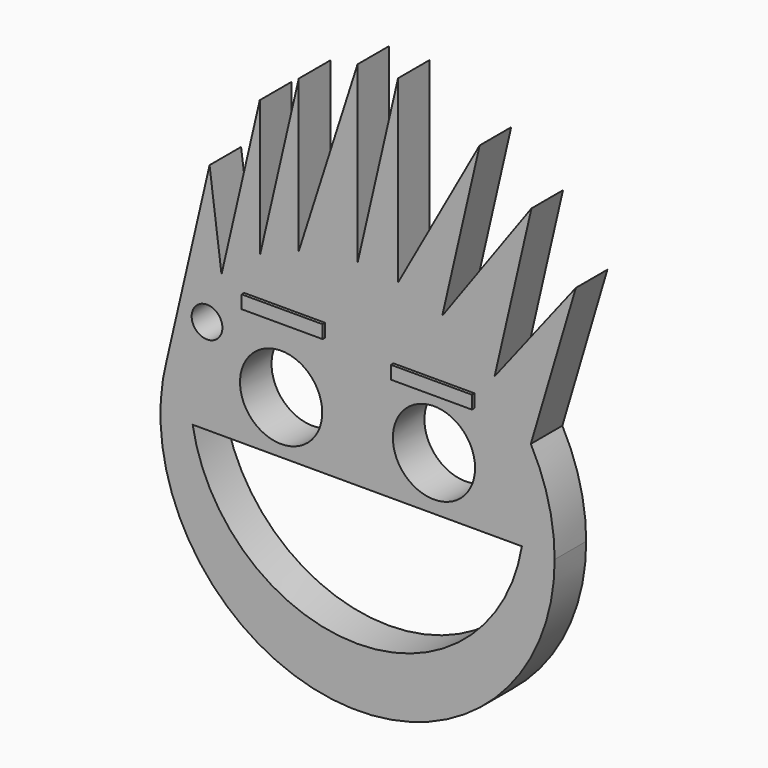
from build123d import *

# Parameters (mm, degrees)
F2_DEPTH   = 3.175
F1_R       = 3.3099800026
F2_FACE_R  = 15.875
F3_DEPTH   = 3.176
F4_DEPTH   = 3.176
F5_DEPTH   = 3.176
F1_W       = 6.5204764251
F1_H       = 1.0553477332
F6_DEPTH   = 3.429
F7_DEPTH   = 3.175
F8_DEPTH   = 3.175
F10_DEPTH  = 3.175
F1_R_2     = 1.2371702014
F10_FACE_R = 3.3099800026
F10_FACE_W = 6.5204764251
F10_FACE_H = 1.0553477332
F11_DEPTH  = 3.43
F12_DEPTH  = 3.429


with BuildPart() as f2:
    # F0 (on Front) → F2 (new body)
    with BuildSketch(Plane.XZ):
        with BuildLine():
            ThreePointArc((-15.3480242567, 4.0563254821), (-2.0452065819, -15.7427048196), (15.875, 0))
            ThreePointArc((15.875, 0), (15.3869963752, 3.9058888297), (13.9529883401, 7.5716406003))
            ThreePointArc((13.9529883401, 7.5716406003), (12.6412349384, 9.6028539629), (11.0362168136, 11.4112901743))
            ThreePointArc((11.0362168136, 11.4112901743), (9.0476421038, 13.0443779983), (6.8213515593, 14.3347405943))
            ThreePointArc((6.8213515593, 14.3347405943), (5.0774604505, 15.0411110086), (3.2622452096, 15.5361958404))
            ThreePointArc((3.2622452096, 15.5361958404), (1.6398957334, 15.7900717853), (0, 15.875))
            ThreePointArc((0, 15.875), (-2.3954258199, 15.693232941), (-4.7359968989, 15.152094191))
            ThreePointArc((-4.7359968989, 15.152094191), (-6.342661706, 14.552878323), (-7.8753225223, 13.7838644861))
            ThreePointArc((-7.8753225223, 13.7838644861), (-9.4847902105, 12.730058117), (-10.9549720741, 11.4893085891))
            ThreePointArc((-10.9549720741, 11.4893085891), (-13.6665362642, 8.0772155808), (-15.3480242567, 4.0563254821))
        make_face()
    extrude(amount=F2_DEPTH)

    # F1 (on face) + F2_face (on face) → F3 (cut, through all)
    with BuildSketch(Plane.XZ):
        with Locations((-6.1555983319, 4.3306481437)):
            Circle(F1_R)
    with BuildSketch(Plane.XZ.offset(3.175)):
        Circle(F2_FACE_R)
    extrude(amount=F3_DEPTH, mode=Mode.SUBTRACT)

    # F1 (on face) → F4 (cut, through all)
    with BuildSketch(Plane.XZ):
        with Locations((6.1544640741, 4.4018082744)):
            Circle(F1_R)
    extrude(amount=F4_DEPTH, mode=Mode.SUBTRACT)

    # F1 (on face) → F5 (cut, through all)
    with BuildSketch(Plane.XZ):
        with BuildLine():
            Line((13.2357986914, 0.0787362223), (-13.2809156822, 0.0787362223))
            ThreePointArc((-13.2809156822, 0.0787362223), (-0.0225584954, -11.1437029045), (13.2357986914, 0.0787362223))
        make_face()
    extrude(amount=F5_DEPTH, mode=Mode.SUBTRACT)

    # F1 (on face) → F6 (join)
    with BuildSketch(Plane.XZ):
        with Locations((6.1458884738, 9.15713422)):
            Rectangle(F1_W, F1_H)
    extrude(amount=F6_DEPTH)

    # F0 (on Front) → F7 (join)
    with BuildSketch(Plane.XZ):
        with BuildLine():
            Line((-11.9195533916, 18.9222916961), (-15.3480242567, 4.0563254821))
            ThreePointArc((-15.3480242567, 4.0563254821), (-13.6665362642, 8.0772155808), (-10.9549720741, 11.4893085891))
            Line((-10.9549720741, 11.4893085891), (-11.9195533916, 18.9222916961))
        make_face()
    extrude(amount=F7_DEPTH)

    # F0 (on Front) → F8 (join)
    with BuildSketch(Plane.XZ):
        with BuildLine():
            Line((-7.8753225223, 24.8427737317), (-10.9549720741, 11.4893085891))
            ThreePointArc((-10.9549720741, 11.4893085891), (-9.4847902105, 12.730058117), (-7.8753225223, 13.7838644861))
            Line((-7.8753225223, 13.7838644861), (-7.8753225223, 24.8427737317))
        make_face()
    extrude(amount=F8_DEPTH)

    # F0 (on Front) → F10 (join)
    with BuildSketch(Plane.XZ):
        with BuildLine():
            Line((0, 29.9478769302), (-4.7359968989, 15.152094191))
            ThreePointArc((-4.7359968989, 15.152094191), (-2.3954258199, 15.693232941), (0, 15.875))
            Line((0, 15.875), (0, 29.9478769302))
        make_face()
        with BuildLine():
            ThreePointArc((0, 15.875), (1.6398957334, 15.7900717853), (3.2622452096, 15.5361958404))
            Line((3.2622452096, 15.5361958404), (3.2622452096, 30.0202061216))
            Line((3.2622452096, 30.0202061216), (0, 15.875))
        make_face()
        with BuildLine():
            ThreePointArc((3.2622452096, 15.5361958404), (5.0774604505, 15.0411110086), (6.8213515593, 14.3347405943))
            Line((6.8213515593, 14.3347405943), (9.8336311057, 27.3960871034))
            Line((9.8336311057, 27.3960871034), (3.2622452096, 15.5361958404))
        make_face()
        with BuildLine():
            ThreePointArc((6.8213515593, 14.3347405943), (9.0476421038, 13.0443779983), (11.0362168136, 11.4112901743))
            Line((11.0362168136, 11.4112901743), (14.0054738149, 24.286089465))
            Line((14.0054738149, 24.286089465), (6.8213515593, 14.3347405943))
        make_face()
        with BuildLine():
            ThreePointArc((11.0362168136, 11.4112901743), (12.6412349384, 9.6028539629), (13.9529883401, 7.5716406003))
            Line((13.9529883401, 7.5716406003), (17.5813417882, 19.8162570596))
            Line((17.5813417882, 19.8162570596), (11.0362168136, 11.4112901743))
        make_face()
        with BuildLine():
            Line((-4.7359968989, 27.3960871034), (-7.8753225223, 13.7838644861))
            ThreePointArc((-7.8753225223, 13.7838644861), (-6.342661706, 14.552878323), (-4.7359968989, 15.152094191))
            Line((-4.7359968989, 15.152094191), (-4.7359968989, 27.3960871034))
        make_face()
    extrude(amount=F10_DEPTH)

    # F1 (on face) + F10_face (on face) → F11 (cut, through all)
    with BuildSketch(Plane.XZ):
        with Locations((-12.1244213607, 7.7306859973)):
            Circle(F1_R_2)
    with BuildSketch(Plane(origin=(0.4916351087, -3.175, 5.8381828157), x_dir=(1, 0, 0), z_dir=(0, -1, 0))):
        with BuildLine():
            ThreePointArc((-15.8396593653, -1.7818573336), (-2.5368416906, -21.5808876353), (15.3833648913, -5.8381828157))
            ThreePointArc((15.3833648913, -5.8381828157), (14.8953612665, -1.932293986), (13.4613532315, 1.7334577846))
            Line((13.4613532315, 1.7334577846), (17.0897066795, 13.9780742439))
            Line((17.0897066795, 13.9780742439), (10.544581705, 5.5731073586))
            Line((10.544581705, 5.5731073586), (13.5138387063, 18.4479066493))
            Line((13.5138387063, 18.4479066493), (6.3297164506, 8.4965577786))
            Line((6.3297164506, 8.4965577786), (9.3419959971, 21.5579042877))
            Line((9.3419959971, 21.5579042877), (2.770610101, 9.6980130247))
            Line((2.770610101, 9.6980130247), (2.770610101, 24.1820233059))
            Line((2.770610101, 24.1820233059), (-0.4916351087, 10.0368171843))
            Line((-0.4916351087, 10.0368171843), (-0.4916351087, 24.1096941145))
            Line((-0.4916351087, 24.1096941145), (-5.2276320076, 9.3139113753))
            Line((-5.2276320076, 9.3139113753), (-5.2276320076, 21.5579042877))
            Line((-5.2276320076, 21.5579042877), (-8.3669576309, 7.9456816704))
            Line((-8.3669576309, 7.9456816704), (-8.3669576309, 19.004590916))
            Line((-8.3669576309, 19.004590916), (-11.4466071828, 5.6511257734))
            Line((-11.4466071828, 5.6511257734), (-12.4111885003, 13.0841088804))
            Line((-12.4111885003, 13.0841088804), (-15.8396593653, -1.7818573336))
        make_face()
        with BuildLine():
            ThreePointArc((12.7441635827, -5.7594465934), (-0.5141936041, -16.9818857202), (-13.7725507908, -5.7594465934))
            Line((-13.7725507908, -5.7594465934), (12.7441635827, -5.7594465934))
        make_face(mode=Mode.SUBTRACT)
        with Locations((-6.6472334405, -1.507534672)):
            Circle(F10_FACE_R, mode=Mode.SUBTRACT)
        with Locations((5.6628289654, -1.4363745413)):
            Circle(F10_FACE_R, mode=Mode.SUBTRACT)
        with Locations((5.6542533652, 3.3189514043)):
            Rectangle(F10_FACE_W, F10_FACE_H, mode=Mode.SUBTRACT)
    extrude(amount=F11_DEPTH, mode=Mode.SUBTRACT)

    # F1 (on face) → F12 (join)
    with BuildSketch(Plane.XZ):
        with Locations((-5.870418041, 10.2435215376)):
            Rectangle(F1_W, F1_H)
    extrude(amount=F12_DEPTH)


solid = f2.part
